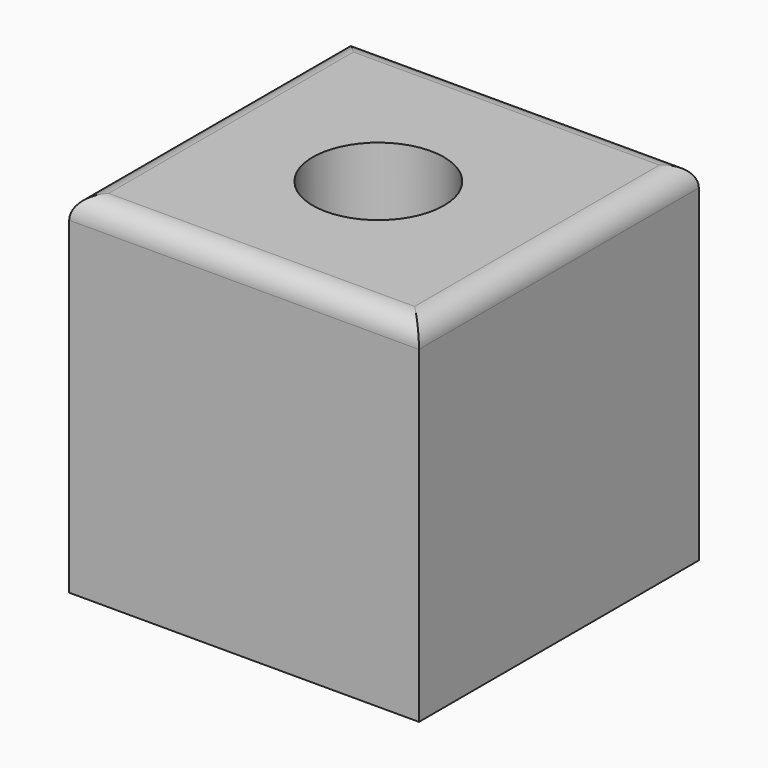
from build123d import *

# Parameters (mm, degrees)
F0_W     = 80
F0_H     = 80
F1_DEPTH = 80
F2_R     = 15
F3_DEPTH = 80.001
F4_R     = 5


with BuildPart() as f1:
    # F0 (on Top) → F1 (new body)
    with BuildSketch(Plane.XY):
        with Locations((-86.254101, 33.223202)):
            Rectangle(F0_W, F0_H)
    extrude(amount=F1_DEPTH)

    # F2 (on face) → F3 (cut, through all)
    with BuildSketch(Plane.XY.offset(80)):
        with Locations((-86.52705, 31.950001)):
            Circle(F2_R)
    extrude(amount=-F3_DEPTH, mode=Mode.SUBTRACT)

    # F4
    f4_edges = [f1.edges().sort_by_distance(p)[0] for p in [
        (-86.254101, 73.223202, 80),
        (-126.254101, 33.223202, 80),
        (-86.254101, -6.776798, 80),
        (-46.254101, 33.223202, 80),
    ]]
    fillet(f4_edges, radius=F4_R)


solid = f1.part
